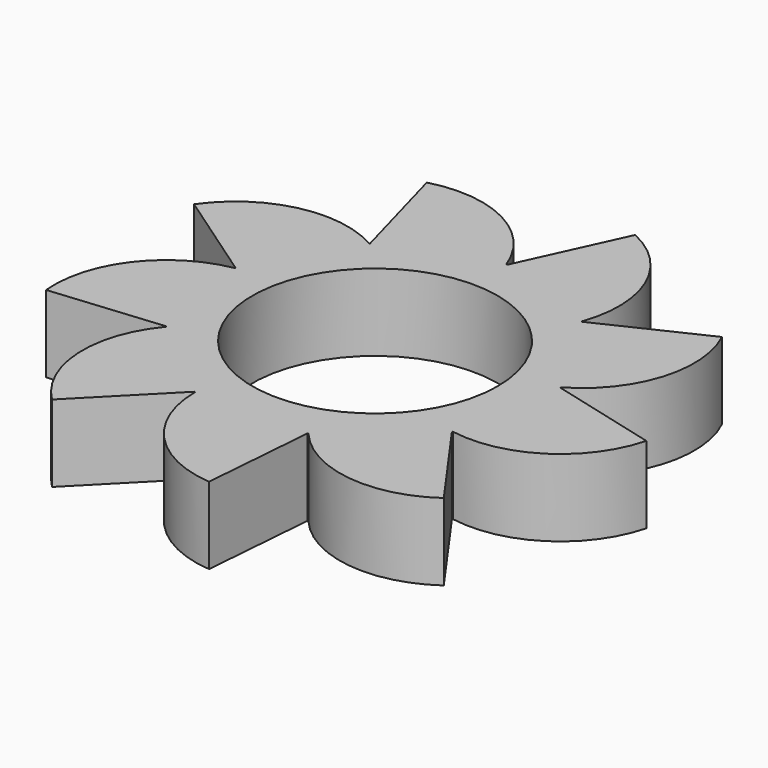
from build123d import *

# Parameters (mm, degrees)
F0_R     = 11.15
F1_DEPTH = 7


with BuildPart() as f1:
    # F0 (on Top) → F1 (new body)
    with BuildSketch(Plane.XY):
        with BuildLine():
            ThreePointArc((13.025886, -7.438165), (14.498074, -3.847838), (15, 0))
            ThreePointArc((15, 0), (14.94292, 1.307336), (14.772116, 2.604723))
            ThreePointArc((14.772116, 2.604723), (14.765884, 2.639825), (14.759568, 2.674913))
            ThreePointArc((14.759568, 2.674913), (12.972518, 7.530854), (9.641814, 11.490667))
            ThreePointArc((9.641814, 11.490667), (9.614476, 11.513551), (9.587084, 11.53637))
            ThreePointArc((9.587084, 11.53637), (5.096786, 14.107543), (0, 15))
            ThreePointArc((0, 15), (-0.035652, 14.999958), (-0.071303, 14.999831))
            ThreePointArc((-0.071303, 14.999831), (-5.163789, 14.083156), (-9.641814, 11.490667))
            ThreePointArc((-9.641814, 11.490667), (-9.669098, 11.467718), (-9.696327, 11.444704))
            ThreePointArc((-9.696327, 11.444704), (-13.00817, 7.469103), (-14.772116, 2.604723))
            ThreePointArc((-14.772116, 2.604723), (-14.778265, 2.569605), (-14.784331, 2.534473))
            ThreePointArc((-14.784331, 2.534473), (-14.765884, -2.639825), (-12.990381, -7.5))
            ThreePointArc((-12.990381, -7.5), (-12.972518, -7.530854), (-12.954583, -7.561666))
            ThreePointArc((-12.954583, -7.561666), (-9.614476, -11.513551), (-5.130302, -14.095389))
            ThreePointArc((-5.130302, -14.095389), (-5.096786, -14.107543), (-5.063241, -14.119617))
            ThreePointArc((-5.063241, -14.119617), (0.035652, -14.999958), (5.130302, -14.095389))
            ThreePointArc((5.130302, -14.095389), (5.163789, -14.083156), (5.197247, -14.070843))
            ThreePointArc((5.197247, -14.070843), (9.669098, -11.467718), (12.990381, -7.5))
            ThreePointArc((12.990381, -7.5), (13.00817, -7.469103), (13.025886, -7.438165))
        make_face()
        Circle(F0_R, mode=Mode.SUBTRACT)
        with BuildLine():
            ThreePointArc((14.772116, 2.604723), (14.94292, 1.307336), (15, 0))
            ThreePointArc((15, 0), (14.498074, -3.847838), (13.025886, -7.438165))
            ThreePointArc((13.025886, -7.438165), (20.290665, -5.965839), (24.637356, 0.038412))
            Line((24.637356, 0.038412), (14.772116, 2.604723))
        make_face()
        with BuildLine():
            ThreePointArc((9.641814, 11.490667), (12.972518, 7.530854), (14.759568, 2.674913))
            ThreePointArc((14.759568, 2.674913), (19.378319, 8.47249), (18.848619, 15.866013))
            Line((18.848619, 15.866013), (9.641814, 11.490667))
        make_face()
        with BuildLine():
            Line((18.898, -15.807162), (12.990381, -7.5))
            ThreePointArc((12.990381, -7.5), (9.669098, -11.467718), (5.197247, -14.070843))
            ThreePointArc((5.197247, -14.070843), (11.708784, -17.612686), (18.898, -15.807162))
        make_face()
        with BuildLine():
            ThreePointArc((0, 15), (5.096786, 14.107543), (9.587084, 11.53637))
            ThreePointArc((9.587084, 11.53637), (9.398642, 18.946447), (4.240404, 24.269729))
            Line((4.240404, 24.269729), (0, 15))
        make_face()
        with BuildLine():
            Line((4.31606, -24.256389), (5.130302, -14.095389))
            ThreePointArc((5.130302, -14.095389), (0.035652, -14.999958), (-5.063241, -14.119617))
            ThreePointArc((-5.063241, -14.119617), (-2.351768, -21.018361), (4.31606, -24.256389))
        make_face()
        with BuildLine():
            ThreePointArc((-9.641814, 11.490667), (-5.163789, 14.083156), (-0.071303, 14.999831))
            ThreePointArc((-0.071303, 14.999831), (-4.978764, 20.555151), (-12.351944, 21.31737))
            Line((-12.351944, 21.31737), (-9.641814, 11.490667))
        make_face()
        with BuildLine():
            Line((-12.285412, -21.355782), (-5.130302, -14.095389))
            ThreePointArc((-5.130302, -14.095389), (-9.614476, -11.513551), (-12.954583, -7.561666))
            ThreePointArc((-12.954583, -7.561666), (-15.311901, -14.589312), (-12.285412, -21.355782))
        make_face()
        with BuildLine():
            ThreePointArc((-14.772116, 2.604723), (-13.00817, 7.469103), (-9.696327, 11.444704))
            ThreePointArc((-9.696327, 11.444704), (-17.026551, 12.545871), (-23.164679, 8.390377))
            Line((-23.164679, 8.390377), (-14.772116, 2.604723))
        make_face()
        with BuildLine():
            Line((-23.138404, -8.462568), (-12.990381, -7.5))
            ThreePointArc((-12.990381, -7.5), (-14.765884, -2.639825), (-14.784331, 2.534473))
            ThreePointArc((-14.784331, 2.534473), (-21.107425, -1.333761), (-23.138404, -8.462568))
        make_face()
    extrude(amount=F1_DEPTH)


solid = f1.part
